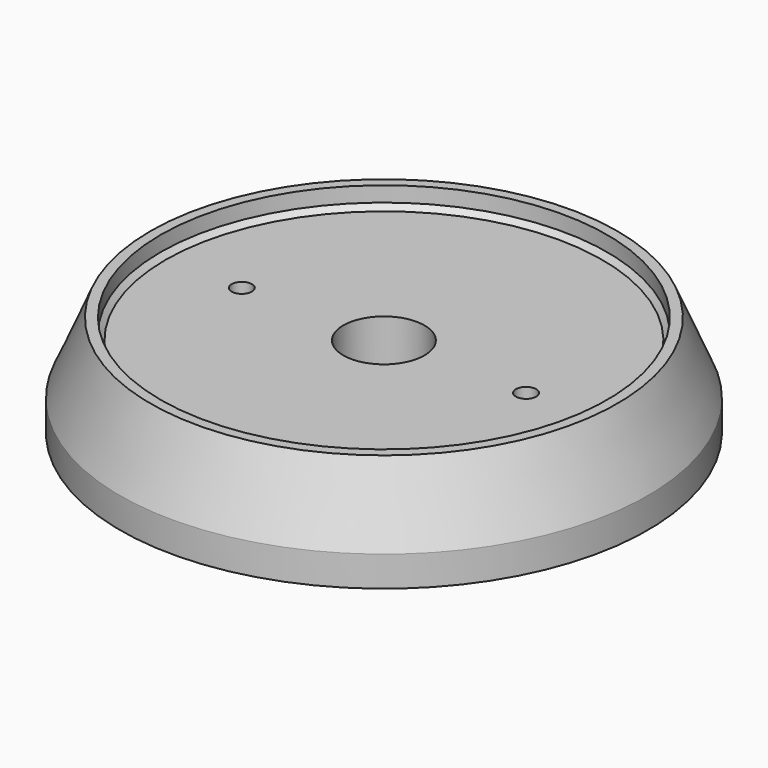
from build123d import *

# Parameters (mm, degrees)
F3_D = 2


with BuildPart() as f1:
    # F0 (on Front) → F1 (revolve)
    with BuildSketch(Plane.XZ):
        Polygon((-26, 21.401275), (-4, 21.401275), (-4, 29.401275), (-21.5, 29.401275), (-22, 29.901275), (-22, 31.401275), (-23, 31.401275), (-26, 24.401275), align=None)
    revolve(axis=Axis((0, 0, 25.401275), (0, 0, 1)))

    # F3 (through all)
    with Locations(Plane(origin=(0, 0, 21.401275), x_dir=(1, 0, 0), z_dir=(0, 0, -1))):
        with Locations((-14, 0), (14, 0)):
            Hole(F3_D / 2)


solid = f1.part
